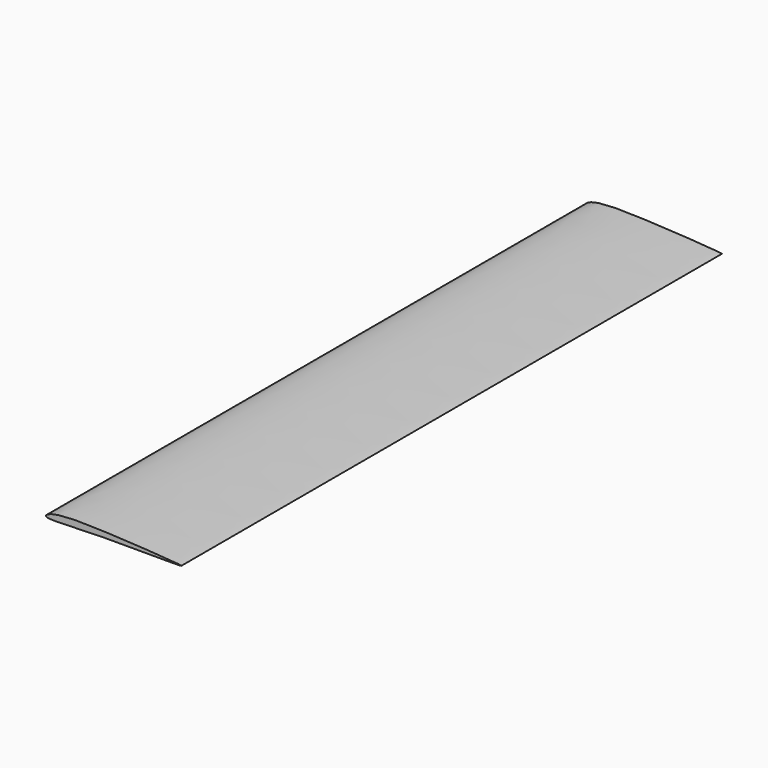
from build123d import *

# Parameters (mm, degrees)
F1_DEPTH = 1000


with BuildPart() as f1:
    # F0 (on Front) → F1 (new body)
    with BuildSketch(Plane.XZ):
        with BuildLine():
            add(Edge.make_bspline(
                [(100.4529358966, -2.6638622835), (100.1870837013, -1.5614950724), (17.1843440871, 3.6433827347), (-24.5505156711, 5.1889688623), (-53.3795640282, 6.163466172), (-76.6060540115, 4.9623286278), (-88.164655136, 3.1198843094), (-93.9176127773, 1.4781570378), (-99.8246174446, -1.0683873694), (-100.268810864, -4.8208995711), (-84.047708212, -5.6881695274), (-53.0542265495, -3.8489006598), (-16.6865444096, -3.2794231247), (26.6746363677, -2.7688597059), (100.7004110652, -3.6900283873), (100.4529358966, -2.6638622835)],
                knots=[0, 0, 0, 0, 0.1314490542, 0.2405570334, 0.3188245239, 0.3914737485, 0.4419459402, 0.4793413335, 0.5161643503, 0.5367687355, 0.5915513616, 0.6780855222, 0.7666918876, 0.8776373586, 1, 1, 1, 1], degree=3))
        make_face()
    extrude(amount=F1_DEPTH)


solid = f1.part
